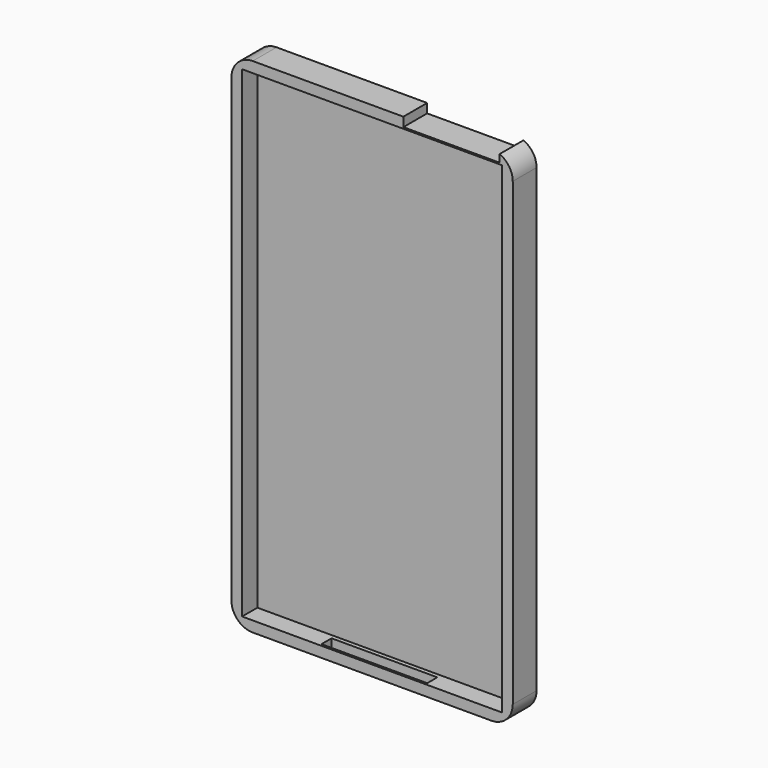
from build123d import *

# Parameters (mm, degrees)
F0_W      = 67.1
F0_H      = 120
F1_DEPTH  = 3.55
F2_T      = -2.54
F3_R      = 5.08
F4_R      = 5.08
F5_R      = 5.08
F6_R      = 5.08
F7_W      = 22.950821
F7_H      = 8.032788
F8_DEPTH  = 12.5
F9_W      = 25.217273
F9_H      = 3.016623
F10_DEPTH = 12.5


with BuildPart() as f1:
    # F0 (on Front) → F1 (new body, symmetric)
    with BuildSketch(Plane.XZ):
        Rectangle(F0_W, F0_H)
    extrude(amount=F1_DEPTH, both=True)

    # F2
    f2_openings = [f1.faces().sort_by_distance(p)[0] for p in [
        (0, -3.55, 0),
    ]]
    offset(amount=F2_T, openings=f2_openings)

    # F3
    f3_edges = [f1.edges().sort_by_distance(p)[0] for p in [
        (33.55, 0, 60),
    ]]
    fillet(f3_edges, radius=F3_R)

    # F4
    f4_edges = [f1.edges().sort_by_distance(p)[0] for p in [
        (-33.55, 0, 60),
    ]]
    fillet(f4_edges, radius=F4_R)

    # F5
    f5_edges = [f1.edges().sort_by_distance(p)[0] for p in [
        (-33.55, 0, -60),
    ]]
    fillet(f5_edges, radius=F5_R)

    # F6
    f6_edges = [f1.edges().sort_by_distance(p)[0] for p in [
        (33.55, 0, -60),
    ]]
    fillet(f6_edges, radius=F6_R)

    # F7 (on Front) → F8 (cut, symmetric)
    with BuildSketch(Plane.XZ):
        with Locations((18.934428, 61.823776)):
            Rectangle(F7_W, F7_H)
    extrude(amount=F8_DEPTH, both=True, mode=Mode.SUBTRACT)

    # F9 (on face) → F10 (cut, symmetric)
    with BuildSketch(Plane(origin=(0, 0, -60), x_dir=(1, 0, 0), z_dir=(0, 0, -1))):
        with Locations((0.109307, 1.508312)):
            Rectangle(F9_W, F9_H)
    extrude(amount=F10_DEPTH, both=True, mode=Mode.SUBTRACT)


solid = f1.part
